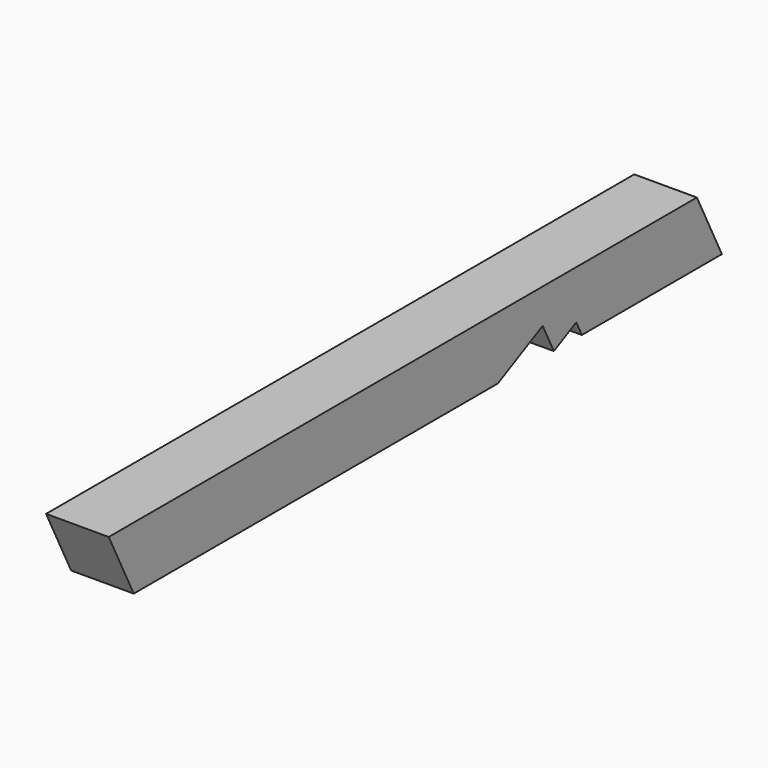
from build123d import *

# Parameters (mm, degrees)
F0_W     = 152.4
F0_H     = 152.4
F1_DEPTH = 3048
F3_DEPTH = 152.401


with BuildPart() as f1:
    # F0 (on Front) → F1 (new body)
    with BuildSketch(Plane.XZ):
        with Locations((76.2, 76.2)):
            Rectangle(F0_W, F0_H)
    extrude(amount=F1_DEPTH)

    # F2 (on face) → F3 (cut, through all)
    with BuildSketch(Plane.YZ.offset(152.4)):
        Polygon((-2971.8, 0), (-3048, 152.4), (-3048, 0), align=None)
        Polygon((0, 152.4), (-1258.922011, 152.4), (-1182.722011, 0), (0, 0), align=None)
        Polygon((-1693.887151, 0), (-1608.692961, 0), (-1625.731799, 34.077676), align=None)
        Polygon((-1864.275531, 0), (-1693.887151, 0), (-1727.964827, 68.155352), align=None)
    extrude(amount=-F3_DEPTH, mode=Mode.SUBTRACT)


solid = f1.part
